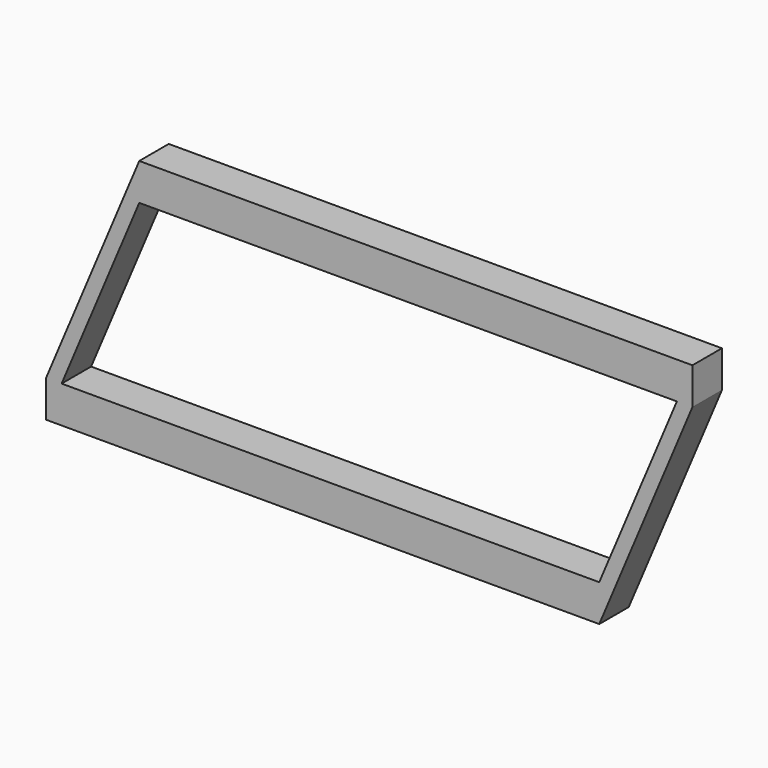
from build123d import *

# Parameters (mm, degrees)
F1_DEPTH = 100
F2_DEPTH = 100
F3_DEPTH = 100


with BuildPart() as f1:
    # F0 (on Front) → F1 (new body)
    with BuildSketch(Plane.XZ):
        Polygon((-177.0265877346, -438.935896764), (1280.8620243115, -438.935896764), (1322.9734122654, -338.935896764), (-177.0265877346, -338.935896764), align=None)
    extrude(amount=F1_DEPTH)

    # F0 (on Front) → F2 (join)
    with BuildSketch(Plane.XZ):
        Polygon((-177.0265877346, -338.935896764), (-345.4721395502, -738.935896764), (-303.3607515963, -738.935896764), (-177.0265877346, -438.935896764), align=None)
        Polygon((-345.4721395502, -738.935896764), (-429.694915458, -938.935896764), (-387.5835275041, -938.935896764), (-303.3607515963, -738.935896764), align=None)
        Polygon((-429.694915458, -938.935896764), (-429.694915458, -1038.935896764), (-387.5835275041, -938.935896764), align=None)
    extrude(amount=F2_DEPTH)

    # F0 (on Front) → F3 (join)
    with BuildSketch(Plane.XZ):
        Polygon((1280.8620243115, -438.935896764), (1322.9734122654, -438.935896764), (1322.9734122654, -338.935896764), align=None)
        Polygon((1070.305084542, -938.935896764), (1070.305084542, -1038.935896764), (1322.9734122654, -438.935896764), (1280.8620243115, -438.935896764), (1154.5278604498, -738.935896764), align=None)
        Polygon((-387.5835275041, -938.935896764), (-429.694915458, -1038.935896764), (1070.305084542, -1038.935896764), (1070.305084542, -938.935896764), align=None)
    extrude(amount=F3_DEPTH)


solid = f1.part
